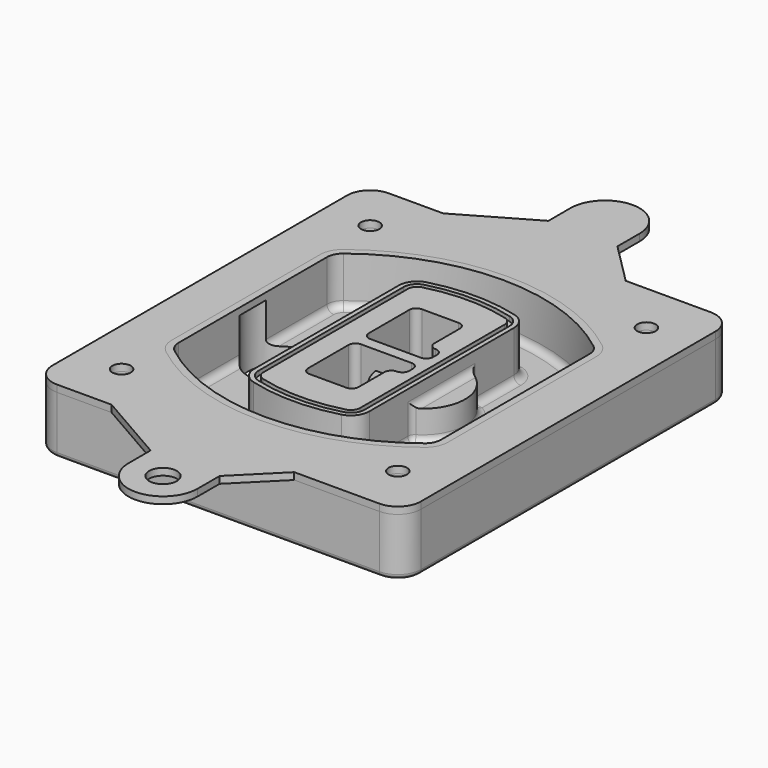
from build123d import *

# Parameters (mm, degrees)
F0_R      = 4
F1_DEPTH  = 25
F2_DEPTH  = 3
F3_DEPTH  = 18
F5_DEPTH  = 21
F6_DEPTH  = 2
F8_DEPTH  = 20
F9_DEPTH  = 16
F10_DEPTH = 25
F7_R      = 6
F7_R_2    = 4
F11_DEPTH = 6
F13_DEPTH = 9
F14_R     = 3
F15_R     = 2
F16_R     = 4
F16_R_2   = 6
F17_DEPTH = 3


with BuildPart() as f1:
    # F0 (on Top) → F1 (new body)
    with BuildSketch(Plane.XY):
        with BuildLine():
            ThreePointArc((-80, -80), (-77.0710678119, -87.0710678119), (-70, -90))
            Line((-70, -90), (70, -90))
            ThreePointArc((70, -90), (77.0710678119, -87.0710678119), (80, -80))
            Line((80, -80), (80, 80))
            ThreePointArc((80, 80), (77.0710678119, 87.0710678119), (70, 90))
            Line((70, 90), (-70, 90))
            ThreePointArc((-70, 90), (-77.0710678119, 87.0710678119), (-80, 80))
            Line((-80, 80), (-80, -80))
        make_face()
        with Locations((-60, -67.5)):
            Circle(F0_R, mode=Mode.SUBTRACT)
        with Locations((60, -67.5)):
            Circle(F0_R, mode=Mode.SUBTRACT)
        with BuildLine():
            ThreePointArc((-64, 40.2934422872), (-62.5820384798, 46.4328484224), (-58.6153846154, 51.3286200352))
            ThreePointArc((-58.6153846154, 51.3286200352), (0, 71.5), (58.6153846154, 51.3286200352))
            ThreePointArc((58.6153846154, 51.3286200352), (62.5820384798, 46.4328484224), (64, 40.2934422872))
            Line((64, 40.2934422872), (64, -40.2934422872))
            ThreePointArc((64, -40.2934422872), (62.5820384798, -46.4328484224), (58.6153846154, -51.3286200352))
            ThreePointArc((58.6153846154, -51.3286200352), (0, -71.5), (-58.6153846154, -51.3286200352))
            ThreePointArc((-58.6153846154, -51.3286200352), (-62.5820384798, -46.4328484224), (-64, -40.2934422872))
            Line((-64, -40.2934422872), (-64, 40.2934422872))
        make_face(mode=Mode.SUBTRACT)
        with Locations((-60, 67.5)):
            Circle(F0_R, mode=Mode.SUBTRACT)
        with Locations((60, 67.5)):
            Circle(F0_R, mode=Mode.SUBTRACT)
        with BuildLine():
            ThreePointArc((58.6153846154, 51.3286200352), (0, 71.5), (-58.6153846154, 51.3286200352))
            ThreePointArc((-58.6153846154, 51.3286200352), (-62.5820384798, 46.4328484224), (-64, 40.2934422872))
            Line((-64, 40.2934422872), (-64, -40.2934422872))
            ThreePointArc((-64, -40.2934422872), (-62.5820384798, -46.4328484224), (-58.6153846154, -51.3286200352))
            ThreePointArc((-58.6153846154, -51.3286200352), (0, -71.5), (58.6153846154, -51.3286200352))
            ThreePointArc((58.6153846154, -51.3286200352), (62.5820384798, -46.4328484224), (64, -40.2934422872))
            Line((64, -40.2934422872), (64, 40.2934422872))
            ThreePointArc((64, 40.2934422872), (62.5820384798, 46.4328484224), (58.6153846154, 51.3286200352))
        make_face()
        with BuildLine():
            Line((-60, -40.2934422872), (-60, 40.2934422872))
            ThreePointArc((-60, 40.2934422872), (-58.9871703427, 44.6787323838), (-56.1538461538, 48.1757121072))
            ThreePointArc((-56.1538461538, 48.1757121072), (0, 67.5), (56.1538461538, 48.1757121072))
            ThreePointArc((56.1538461538, 48.1757121072), (58.9871703427, 44.6787323838), (60, 40.2934422872))
            Line((60, 40.2934422872), (60, -40.2934422872))
            ThreePointArc((60, -40.2934422872), (58.9871703427, -44.6787323838), (56.1538461538, -48.1757121072))
            ThreePointArc((56.1538461538, -48.1757121072), (0, -67.5), (-56.1538461538, -48.1757121072))
            ThreePointArc((-56.1538461538, -48.1757121072), (-58.9871703427, -44.6787323838), (-60, -40.2934422872))
        make_face(mode=Mode.SUBTRACT)
        with BuildLine():
            ThreePointArc((-56.1538461538, 48.1757121072), (-58.9871703427, 44.6787323838), (-60, 40.2934422872))
            Line((-60, 40.2934422872), (-60, -40.2934422872))
            ThreePointArc((-60, -40.2934422872), (-58.9871703427, -44.6787323838), (-56.1538461538, -48.1757121072))
            ThreePointArc((-56.1538461538, -48.1757121072), (0, -67.5), (56.1538461538, -48.1757121072))
            ThreePointArc((56.1538461538, -48.1757121072), (58.9871703427, -44.6787323838), (60, -40.2934422872))
            Line((60, -40.2934422872), (60, 40.2934422872))
            ThreePointArc((60, 40.2934422872), (58.9871703427, 44.6787323838), (56.1538461538, 48.1757121072))
            ThreePointArc((56.1538461538, 48.1757121072), (0, 67.5), (-56.1538461538, 48.1757121072))
        make_face()
        with BuildLine():
            ThreePointArc((54.3076923077, 45.8110311612), (56.2910192399, 43.3631453548), (57, 40.2934422872))
            Line((57, 40.2934422872), (57, -40.2934422872))
            ThreePointArc((57, -40.2934422872), (56.2910192399, -43.3631453548), (54.3076923077, -45.8110311612))
            ThreePointArc((54.3076923077, -45.8110311612), (0, -64.5), (-54.3076923077, -45.8110311612))
            ThreePointArc((-54.3076923077, -45.8110311612), (-56.2910192399, -43.3631453548), (-57, -40.2934422872))
            Line((-57, -40.2934422872), (-57, 40.2934422872))
            ThreePointArc((-57, 40.2934422872), (-56.2910192399, 43.3631453548), (-54.3076923077, 45.8110311612))
            ThreePointArc((-54.3076923077, 45.8110311612), (0, 64.5), (54.3076923077, 45.8110311612))
        make_face(mode=Mode.SUBTRACT)
        with BuildLine():
            Line((57, -40.2934422872), (57, 40.2934422872))
            ThreePointArc((57, 40.2934422872), (56.2910192399, 43.3631453548), (54.3076923077, 45.8110311612))
            ThreePointArc((54.3076923077, 45.8110311612), (0, 64.5), (-54.3076923077, 45.8110311612))
            ThreePointArc((-54.3076923077, 45.8110311612), (-56.2910192399, 43.3631453548), (-57, 40.2934422872))
            Line((-57, 40.2934422872), (-57, -40.2934422872))
            ThreePointArc((-57, -40.2934422872), (-56.2910192399, -43.3631453548), (-54.3076923077, -45.8110311612))
            ThreePointArc((-54.3076923077, -45.8110311612), (0, -64.5), (54.3076923077, -45.8110311612))
            ThreePointArc((54.3076923077, -45.8110311612), (56.2910192399, -43.3631453548), (57, -40.2934422872))
        make_face()
    extrude(amount=-F1_DEPTH)

    # F0 (on Top) → F2 (join)
    with BuildSketch(Plane.XY):
        with BuildLine():
            ThreePointArc((-56.1538461538, 48.1757121072), (-58.9871703427, 44.6787323838), (-60, 40.2934422872))
            Line((-60, 40.2934422872), (-60, -40.2934422872))
            ThreePointArc((-60, -40.2934422872), (-58.9871703427, -44.6787323838), (-56.1538461538, -48.1757121072))
            ThreePointArc((-56.1538461538, -48.1757121072), (0, -67.5), (56.1538461538, -48.1757121072))
            ThreePointArc((56.1538461538, -48.1757121072), (58.9871703427, -44.6787323838), (60, -40.2934422872))
            Line((60, -40.2934422872), (60, 40.2934422872))
            ThreePointArc((60, 40.2934422872), (58.9871703427, 44.6787323838), (56.1538461538, 48.1757121072))
            ThreePointArc((56.1538461538, 48.1757121072), (0, 67.5), (-56.1538461538, 48.1757121072))
        make_face()
        with BuildLine():
            ThreePointArc((54.3076923077, 45.8110311612), (56.2910192399, 43.3631453548), (57, 40.2934422872))
            Line((57, 40.2934422872), (57, -40.2934422872))
            ThreePointArc((57, -40.2934422872), (56.2910192399, -43.3631453548), (54.3076923077, -45.8110311612))
            ThreePointArc((54.3076923077, -45.8110311612), (0, -64.5), (-54.3076923077, -45.8110311612))
            ThreePointArc((-54.3076923077, -45.8110311612), (-56.2910192399, -43.3631453548), (-57, -40.2934422872))
            Line((-57, -40.2934422872), (-57, 40.2934422872))
            ThreePointArc((-57, 40.2934422872), (-56.2910192399, 43.3631453548), (-54.3076923077, 45.8110311612))
            ThreePointArc((-54.3076923077, 45.8110311612), (0, 64.5), (54.3076923077, 45.8110311612))
        make_face(mode=Mode.SUBTRACT)
    extrude(amount=F2_DEPTH)

    # F0 (on Top) → F3 (cut)
    with BuildSketch(Plane.XY):
        with BuildLine():
            Line((57, -40.2934422872), (57, 40.2934422872))
            ThreePointArc((57, 40.2934422872), (56.2910192399, 43.3631453548), (54.3076923077, 45.8110311612))
            ThreePointArc((54.3076923077, 45.8110311612), (0, 64.5), (-54.3076923077, 45.8110311612))
            ThreePointArc((-54.3076923077, 45.8110311612), (-56.2910192399, 43.3631453548), (-57, 40.2934422872))
            Line((-57, 40.2934422872), (-57, -40.2934422872))
            ThreePointArc((-57, -40.2934422872), (-56.2910192399, -43.3631453548), (-54.3076923077, -45.8110311612))
            ThreePointArc((-54.3076923077, -45.8110311612), (0, -64.5), (54.3076923077, -45.8110311612))
            ThreePointArc((54.3076923077, -45.8110311612), (56.2910192399, -43.3631453548), (57, -40.2934422872))
        make_face()
    extrude(amount=-F3_DEPTH, mode=Mode.SUBTRACT)

    # F4 (on face) → F5 (join, through all)
    with BuildSketch(Plane.XY.offset(3)):
        with BuildLine():
            ThreePointArc((-25, -39.2465276821), (-23.3511545998, -44.1109737193), (-19.0842911877, -46.9702398883))
            ThreePointArc((-19.0842911877, -46.9702398883), (0, -49.5), (19.0842911877, -46.9702398883))
            ThreePointArc((19.0842911877, -46.9702398883), (23.3511545998, -44.1109737193), (25, -39.2465276821))
            Line((25, -39.2465276821), (25, 39.2465276821))
            ThreePointArc((25, 39.2465276821), (23.3511545998, 44.1109737193), (19.0842911877, 46.9702398883))
            ThreePointArc((19.0842911877, 46.9702398883), (0, 49.5), (-19.0842911877, 46.9702398883))
            ThreePointArc((-19.0842911877, 46.9702398883), (-23.3511545998, 44.1109737193), (-25, 39.2465276821))
            Line((-25, 39.2465276821), (-25, -39.2465276821))
        make_face()
        with BuildLine():
            ThreePointArc((18.5632183908, 45.0393118368), (21.7633659499, 42.89486221), (23, 39.2465276821))
            Line((23, 39.2465276821), (23, -39.2465276821))
            ThreePointArc((23, -39.2465276821), (21.7633659499, -42.89486221), (18.5632183908, -45.0393118368))
            ThreePointArc((18.5632183908, -45.0393118368), (0, -47.5), (-18.5632183908, -45.0393118368))
            ThreePointArc((-18.5632183908, -45.0393118368), (-21.7633659499, -42.89486221), (-23, -39.2465276821))
            Line((-23, -39.2465276821), (-23, 39.2465276821))
            ThreePointArc((-23, 39.2465276821), (-21.7633659499, 42.89486221), (-18.5632183908, 45.0393118368))
            ThreePointArc((-18.5632183908, 45.0393118368), (0, 47.5), (18.5632183908, 45.0393118368))
        make_face(mode=Mode.SUBTRACT)
        with BuildLine():
            Line((23, -39.2465276821), (23, 39.2465276821))
            ThreePointArc((23, 39.2465276821), (21.7633659499, 42.89486221), (18.5632183908, 45.0393118368))
            ThreePointArc((18.5632183908, 45.0393118368), (0, 47.5), (-18.5632183908, 45.0393118368))
            ThreePointArc((-18.5632183908, 45.0393118368), (-21.7633659499, 42.89486221), (-23, 39.2465276821))
            Line((-23, 39.2465276821), (-23, -39.2465276821))
            ThreePointArc((-23, -39.2465276821), (-21.7633659499, -42.89486221), (-18.5632183908, -45.0393118368))
            ThreePointArc((-18.5632183908, -45.0393118368), (0, -47.5), (18.5632183908, -45.0393118368))
            ThreePointArc((18.5632183908, -45.0393118368), (21.7633659499, -42.89486221), (23, -39.2465276821))
        make_face()
        with BuildLine():
            ThreePointArc((18.0421455939, 43.1083837852), (20.1755772999, 41.6787507007), (21, 39.2465276821))
            Line((21, 39.2465276821), (21, -39.2465276821))
            ThreePointArc((21, -39.2465276821), (20.1755772999, -41.6787507007), (18.0421455939, -43.1083837852))
            ThreePointArc((18.0421455939, -43.1083837852), (0, -45.5), (-18.0421455939, -43.1083837852))
            ThreePointArc((-18.0421455939, -43.1083837852), (-20.1755772999, -41.6787507007), (-21, -39.2465276821))
            Line((-21, -39.2465276821), (-21, 39.2465276821))
            ThreePointArc((-21, 39.2465276821), (-20.1755772999, 41.6787507007), (-18.0421455939, 43.1083837852))
            ThreePointArc((-18.0421455939, 43.1083837852), (0, 45.5), (18.0421455939, 43.1083837852))
        make_face(mode=Mode.SUBTRACT)
        with BuildLine():
            Line((21, -39.2465276821), (21, 39.2465276821))
            ThreePointArc((21, 39.2465276821), (20.1755772999, 41.6787507007), (18.0421455939, 43.1083837852))
            ThreePointArc((18.0421455939, 43.1083837852), (0, 45.5), (-18.0421455939, 43.1083837852))
            ThreePointArc((-18.0421455939, 43.1083837852), (-20.1755772999, 41.6787507007), (-21, 39.2465276821))
            Line((-21, 39.2465276821), (-21, -39.2465276821))
            ThreePointArc((-21, -39.2465276821), (-20.1755772999, -41.6787507007), (-18.0421455939, -43.1083837852))
            ThreePointArc((-18.0421455939, -43.1083837852), (0, -45.5), (18.0421455939, -43.1083837852))
            ThreePointArc((18.0421455939, -43.1083837852), (20.1755772999, -41.6787507007), (21, -39.2465276821))
        make_face()
        with BuildLine():
            Line((-8, -2.5), (14, -2.5))
            ThreePointArc((14, -2.5), (16.1213203436, -3.3786796564), (17, -5.5))
            Line((17, -5.5), (17, -7.5))
            ThreePointArc((17, -7.5), (16.1213203436, -9.6213203436), (14, -10.5))
            ThreePointArc((14, -10.5), (11.8786796564, -11.3786796564), (11, -13.5))
            Line((11, -13.5), (11, -27.5))
            ThreePointArc((11, -27.5), (10.1213203436, -29.6213203436), (8, -30.5))
            Line((8, -30.5), (-8, -30.5))
            ThreePointArc((-8, -30.5), (-10.1213203436, -29.6213203436), (-11, -27.5))
            Line((-11, -27.5), (-11, -5.5))
            ThreePointArc((-11, -5.5), (-10.1213203436, -3.3786796564), (-8, -2.5))
        make_face(mode=Mode.SUBTRACT)
        with BuildLine():
            ThreePointArc((-8, 2.5), (-10.1213203436, 3.3786796564), (-11, 5.5))
            Line((-11, 5.5), (-11, 27.5))
            ThreePointArc((-11, 27.5), (-10.1213203436, 29.6213203436), (-8, 30.5))
            Line((-8, 30.5), (8, 30.5))
            ThreePointArc((8, 30.5), (10.1213203436, 29.6213203436), (11, 27.5))
            Line((11, 27.5), (11, 13.5))
            ThreePointArc((11, 13.5), (11.8786796564, 11.3786796564), (14, 10.5))
            ThreePointArc((14, 10.5), (16.1213203436, 9.6213203436), (17, 7.5))
            Line((17, 7.5), (17, 5.5))
            ThreePointArc((17, 5.5), (16.1213203436, 3.3786796564), (14, 2.5))
            Line((14, 2.5), (-8, 2.5))
        make_face(mode=Mode.SUBTRACT)
    extrude(amount=-F5_DEPTH)

    # F4 (on face) → F6 (cut)
    with BuildSketch(Plane.XY.offset(3)):
        with BuildLine():
            Line((23, -39.2465276821), (23, 39.2465276821))
            ThreePointArc((23, 39.2465276821), (21.7633659499, 42.89486221), (18.5632183908, 45.0393118368))
            ThreePointArc((18.5632183908, 45.0393118368), (0, 47.5), (-18.5632183908, 45.0393118368))
            ThreePointArc((-18.5632183908, 45.0393118368), (-21.7633659499, 42.89486221), (-23, 39.2465276821))
            Line((-23, 39.2465276821), (-23, -39.2465276821))
            ThreePointArc((-23, -39.2465276821), (-21.7633659499, -42.89486221), (-18.5632183908, -45.0393118368))
            ThreePointArc((-18.5632183908, -45.0393118368), (0, -47.5), (18.5632183908, -45.0393118368))
            ThreePointArc((18.5632183908, -45.0393118368), (21.7633659499, -42.89486221), (23, -39.2465276821))
        make_face()
        with BuildLine():
            ThreePointArc((18.0421455939, 43.1083837852), (20.1755772999, 41.6787507007), (21, 39.2465276821))
            Line((21, 39.2465276821), (21, -39.2465276821))
            ThreePointArc((21, -39.2465276821), (20.1755772999, -41.6787507007), (18.0421455939, -43.1083837852))
            ThreePointArc((18.0421455939, -43.1083837852), (0, -45.5), (-18.0421455939, -43.1083837852))
            ThreePointArc((-18.0421455939, -43.1083837852), (-20.1755772999, -41.6787507007), (-21, -39.2465276821))
            Line((-21, -39.2465276821), (-21, 39.2465276821))
            ThreePointArc((-21, 39.2465276821), (-20.1755772999, 41.6787507007), (-18.0421455939, 43.1083837852))
            ThreePointArc((-18.0421455939, 43.1083837852), (0, 45.5), (18.0421455939, 43.1083837852))
        make_face(mode=Mode.SUBTRACT)
    extrude(amount=-F6_DEPTH, mode=Mode.SUBTRACT)

    # F7 (on face) → F8 (join)
    with BuildSketch(Plane(origin=(0, 0, -25), x_dir=(1, 0, 0), z_dir=(0, 0, -1))):
        with BuildLine():
            ThreePointArc((3.28842436, 0), (16.7567035675, 13.4682792075), (30.224982775, 0))
            Line((30.224982775, 0), (35.224982775, 0))
            ThreePointArc((35.224982775, 0), (16.7567035675, 18.4682792075), (-1.71157564, 0))
            Line((-1.71157564, 0), (3.28842436, 0))
        make_face()
        with BuildLine():
            Line((3.28842436, 0), (30.224982775, 0))
            ThreePointArc((30.224982775, 0), (16.7567035675, 13.4682792075), (3.28842436, 0))
        make_face()
        with BuildLine():
            ThreePointArc((3.28842436, 0), (16.7567035675, -13.4682792075), (30.224982775, 0))
            Line((30.224982775, 0), (3.28842436, 0))
        make_face()
        with BuildLine():
            Line((35.224982775, 0), (30.224982775, 0))
            ThreePointArc((30.224982775, 0), (16.7567035675, -13.4682792075), (3.28842436, 0))
            Line((3.28842436, 0), (-1.71157564, 0))
            ThreePointArc((-1.71157564, 0), (16.7567035675, -18.4682792075), (35.224982775, 0))
        make_face()
    extrude(amount=-F8_DEPTH)

    # F7 (on face) → F9 (cut)
    with BuildSketch(Plane(origin=(0, 0, -25), x_dir=(1, 0, 0), z_dir=(0, 0, -1))):
        with BuildLine():
            Line((3.28842436, 0), (30.224982775, 0))
            ThreePointArc((30.224982775, 0), (16.7567035675, 13.4682792075), (3.28842436, 0))
        make_face()
        with BuildLine():
            ThreePointArc((3.28842436, 0), (16.7567035675, -13.4682792075), (30.224982775, 0))
            Line((30.224982775, 0), (3.28842436, 0))
        make_face()
    extrude(amount=-F9_DEPTH, mode=Mode.SUBTRACT)

    # F7 (on face) → F10 (cut)
    with BuildSketch(Plane(origin=(0, 0, -25), x_dir=(1, 0, 0), z_dir=(0, 0, -1))):
        with BuildLine():
            Line((-59.0318229325, 0), (-32.0952645175, 0))
            ThreePointArc((-32.0952645175, 0), (-45.563543725, 13.4682792075), (-59.0318229325, 0))
        make_face()
        with BuildLine():
            ThreePointArc((-59.0318229325, 0), (-45.563543725, -13.4682792075), (-32.0952645175, 0))
            Line((-32.0952645175, 0), (-59.0318229325, 0))
        make_face()
    extrude(amount=-F10_DEPTH, mode=Mode.SUBTRACT)

    # F7 (on face) → F11 (cut)
    with BuildSketch(Plane(origin=(0, 0, -25), x_dir=(1, 0, 0), z_dir=(0, 0, -1))):
        with Locations((60, -67.5)):
            Circle(F7_R)
        with Locations((60, -67.5)):
            Circle(F7_R_2, mode=Mode.SUBTRACT)
        with Locations((60, -67.5)):
            Circle(F7_R)
        with Locations((60, -67.5)):
            Circle(F7_R_2, mode=Mode.SUBTRACT)
        with Locations((-60, -67.5)):
            Circle(F7_R)
        with Locations((-60, -67.5)):
            Circle(F7_R_2, mode=Mode.SUBTRACT)
        with Locations((-60, -67.5)):
            Circle(F7_R)
        with Locations((-60, -67.5)):
            Circle(F7_R_2, mode=Mode.SUBTRACT)
        with Locations((-60, 67.5)):
            Circle(F7_R)
        with Locations((-60, 67.5)):
            Circle(F7_R_2, mode=Mode.SUBTRACT)
        with Locations((-60, 67.5)):
            Circle(F7_R)
        with Locations((-60, 67.5)):
            Circle(F7_R_2, mode=Mode.SUBTRACT)
        with Locations((60, 67.5)):
            Circle(F7_R)
        with Locations((60, 67.5)):
            Circle(F7_R_2, mode=Mode.SUBTRACT)
        with Locations((60, 67.5)):
            Circle(F7_R)
        with Locations((60, 67.5)):
            Circle(F7_R_2, mode=Mode.SUBTRACT)
    extrude(amount=-F11_DEPTH, mode=Mode.SUBTRACT)

    # F12 (on face) → F13 (cut, through all)
    with BuildSketch(Plane(origin=(0, 0, -9), x_dir=(1, 0, 0), z_dir=(0, 0, -1))):
        with BuildLine():
            Line((11, 13.5), (11, 17.5481537753))
            ThreePointArc((11, 17.5481537753), (2.5696536419, 11.8239143813), (-1.5415842455, 2.5))
            Line((-1.5415842455, 2.5), (3.5224848595, 2.5))
            ThreePointArc((3.5224848595, 2.5), (6.1857188154, 8.3455872281), (11.2536447004, 12.2927168648))
            ThreePointArc((11.2536447004, 12.2927168648), (11.0640958889, 12.8831798879), (11, 13.5))
        make_face()
        with BuildLine():
            ThreePointArc((11.2536447004, -12.2927168648), (6.1857188154, -8.3455872281), (3.5224848595, -2.5))
            Line((3.5224848595, -2.5), (-1.5415842455, -2.5))
            ThreePointArc((-1.5415842455, -2.5), (2.5696536419, -11.8239143813), (11, -17.5481537753))
            Line((11, -17.5481537753), (11, -13.5))
            ThreePointArc((11, -13.5), (11.0640958889, -12.8831798879), (11.2536447004, -12.2927168648))
        make_face()
        with BuildLine():
            ThreePointArc((11.2536447004, 12.2927168648), (6.1857188154, 8.3455872281), (3.5224848595, 2.5))
            Line((3.5224848595, 2.5), (14, 2.5))
            ThreePointArc((14, 2.5), (16.1213203436, 3.3786796564), (17, 5.5))
            Line((17, 5.5), (17, 7.5))
            ThreePointArc((17, 7.5), (16.1213203436, 9.6213203436), (14, 10.5))
            ThreePointArc((14, 10.5), (12.3601599782, 10.9878446101), (11.2536447004, 12.2927168648))
        make_face()
        with BuildLine():
            Line((14, -2.5), (3.5224848595, -2.5))
            ThreePointArc((3.5224848595, -2.5), (6.1857188154, -8.3455872281), (11.2536447004, -12.2927168648))
            ThreePointArc((11.2536447004, -12.2927168648), (12.3601599782, -10.9878446101), (14, -10.5))
            ThreePointArc((14, -10.5), (16.1213203436, -9.6213203436), (17, -7.5))
            Line((17, -7.5), (17, -5.5))
            ThreePointArc((17, -5.5), (16.1213203436, -3.3786796564), (14, -2.5))
        make_face()
    extrude(amount=F13_DEPTH, mode=Mode.SUBTRACT)

    # F14
    f14_edges = [f1.edges().sort_by_distance(p)[0] for p in [
        (-57, -23.703476, -18),
        (-57, 23.703476, -18),
        (25, 0, -5),
        (25, 16.526506, -11.5),
        (25, -16.526506, -11.5),
        (25, -27.886517, -18),
        (35.224983, 0, -18),
    ]]
    fillet(f14_edges, radius=F14_R)

    # F15
    f15_edges = [f1.edges().sort_by_distance(p)[0] for p in [
        (0, -90, -25),
    ]]
    fillet(f15_edges, radius=F15_R)


with BuildPart() as f17:
    # F16 (on face) → F17 (new body, through all)
    with BuildSketch(Plane.XY):
        with BuildLine():
            Line((33, 90), (-46.3296100497, 90))
            Line((-46.3296100497, 90), (-70, 90))
            ThreePointArc((-70, 90), (-77.0710678119, 87.0710678119), (-80, 80))
            Line((-80, 80), (-80, -80))
            ThreePointArc((-80, -80), (-77.0710678119, -87.0710678119), (-70, -90))
            Line((-70, -90), (-46.3296100497, -90))
            Line((-46.3296100497, -90), (33, -90))
            Line((33, -90), (70, -90))
            ThreePointArc((70, -90), (77.0710678119, -87.0710678119), (80, -80))
            Line((80, -80), (80, 80))
            ThreePointArc((80, 80), (77.0710678119, 87.0710678119), (70, 90))
            Line((70, 90), (33, 90))
        make_face()
        with Locations((-60, -67.5)):
            Circle(F16_R, mode=Mode.SUBTRACT)
        with Locations((60, -67.5)):
            Circle(F16_R, mode=Mode.SUBTRACT)
        with Locations((-60, 67.5)):
            Circle(F16_R, mode=Mode.SUBTRACT)
        with BuildLine():
            ThreePointArc((-60, 40.2934422872), (-58.9871703427, 44.6787323838), (-56.1538461538, 48.1757121072))
            ThreePointArc((-56.1538461538, 48.1757121072), (0, 67.5), (56.1538461538, 48.1757121072))
            ThreePointArc((56.1538461538, 48.1757121072), (58.9871703427, 44.6787323838), (60, 40.2934422872))
            Line((60, 40.2934422872), (60, -40.2934422872))
            ThreePointArc((60, -40.2934422872), (58.9871703427, -44.6787323838), (56.1538461538, -48.1757121072))
            ThreePointArc((56.1538461538, -48.1757121072), (0, -67.5), (-56.1538461538, -48.1757121072))
            ThreePointArc((-56.1538461538, -48.1757121072), (-58.9871703427, -44.6787323838), (-60, -40.2934422872))
            Line((-60, -40.2934422872), (-60, 40.2934422872))
        make_face(mode=Mode.SUBTRACT)
        with Locations((60, 67.5)):
            Circle(F16_R, mode=Mode.SUBTRACT)
        with BuildLine():
            Line((33, -90), (-46.3296100497, -90))
            Line((-46.3296100497, -90), (-15, -108))
            Line((-15, -108), (-15, -120))
            ThreePointArc((-15, -120), (0, -135), (15, -120))
            Line((15, -120), (15, -108))
            Line((15, -108), (33, -90))
        make_face()
        with Locations((0, -120)):
            Circle(F16_R_2, mode=Mode.SUBTRACT)
        with BuildLine():
            ThreePointArc((15, 120), (0, 135), (-15, 120))
            Line((-15, 120), (-15, 108))
            Line((-15, 108), (-46.3296100497, 90))
            Line((-46.3296100497, 90), (33, 90))
            Line((33, 90), (15, 108))
            Line((15, 108), (15, 120))
        make_face()
        with Locations((0, 120)):
            Circle(F16_R_2, mode=Mode.SUBTRACT)
        with Locations((0, 120)):
            Circle(F16_R_2)
    extrude(amount=F17_DEPTH)


solid = Compound([f1.part, f17.part])
